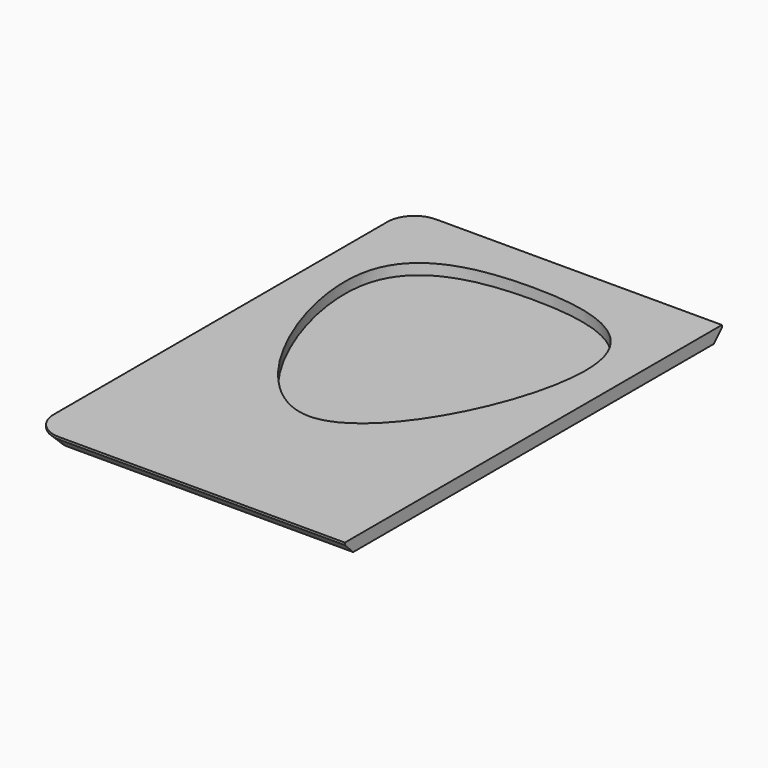
from build123d import *

# Parameters (mm, degrees)
F1_DEPTH = 1.4
F3_SIZE  = 1.15
F4_DEPTH = 1.2
F5_W     = 60.5649575591
F5_H     = 70.2168419957
F6_DEPTH = 25


with BuildPart() as f1:
    # F0 (on Top) → F1 (new body)
    with BuildSketch(Plane.XY):
        with BuildLine():
            ThreePointArc((0, 3), (0.8786796564, 0.8786796564), (3, 0))
            Line((3, 0), (81.7, 0))
            ThreePointArc((81.7, 0), (83.8213203436, 0.8786796564), (84.7, 3))
            Line((84.7, 3), (84.7, 49.3))
            ThreePointArc((84.7, 49.3), (83.8213203436, 51.4213203436), (81.7, 52.3))
            Line((81.7, 52.3), (3, 52.3))
            ThreePointArc((3, 52.3), (0.8786796564, 51.4213203436), (0, 49.3))
            Line((0, 49.3), (0, 3))
        make_face()
    extrude(amount=F1_DEPTH)

    # F3
    f3_edges = [f1.edges().sort_by_distance(p)[0] for p in [
        (42.35, 0, 0),
    ]]
    chamfer(f3_edges, length=F3_SIZE)

    # F2 (on face) → F4 (cut)
    with BuildSketch(Plane.XY.offset(1.4)):
        with BuildLine():
            add(Edge.make_bspline(
                [(17.4764175909, 47.5758282482), (23.4767717635, 47.5758282482), (37.6098450136, 44.6856723634), (17.4764175909, 0.4003325541), (-2.6570098318, 44.6856723634), (11.4760634183, 47.5758282482), (17.4764175909, 47.5758282482)],
                knots=[0, 0, 0, 0, 0.212280587, 0.5, 0.787719413, 1, 1, 1, 1], degree=3))
        make_face()
    extrude(amount=-F4_DEPTH, mode=Mode.SUBTRACT)

    # F5 (on face) → F6 (cut)
    with BuildSketch(Plane.XY.offset(1.4)):
        with Locations((65.0020055473, 21.4577354491)):
            Rectangle(F5_W, F5_H)
    extrude(amount=-F6_DEPTH, mode=Mode.SUBTRACT)


solid = f1.part
